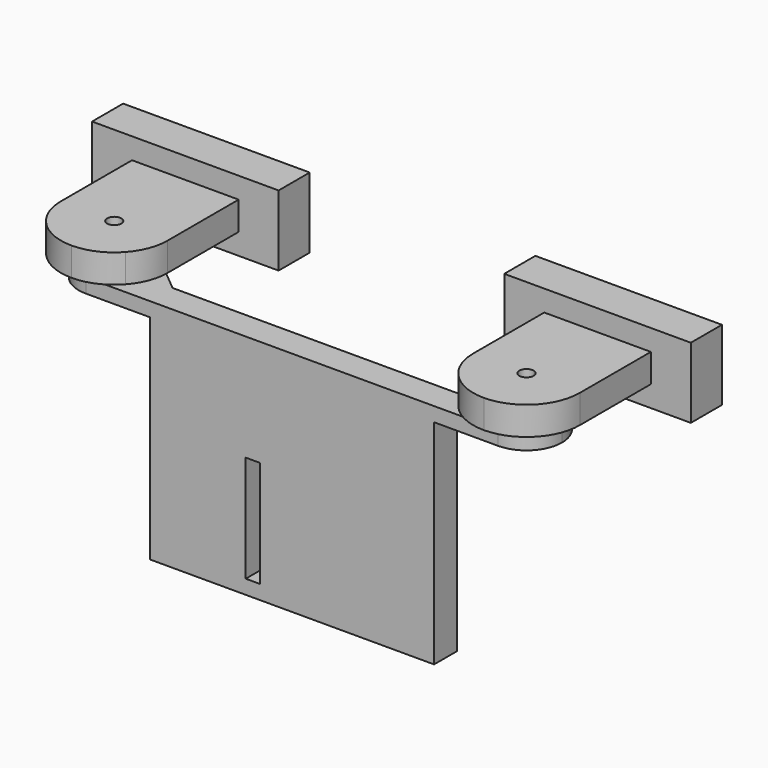
from build123d import *

# Parameters (mm, degrees)
F1_W          = 26.25
F1_H          = 9.93
F1_W_2        = 15
F1_H_2        = 4
F2_DEPTH      = 5.47
F3_DEPTH      = 25.47
F4_R          = 1
F5_DEPTH      = 25
F6_DEPTH      = 2
F4_W          = 13.5
F4_H          = 4
F7_DEPTH      = 30
F7_DEPTH_BACK = 2
F4_W_2        = 24.5
F4_W_3        = 2
F8_DEPTH      = 2
F8_DEPTH_BACK = 13
F9_START      = -28
F9_DEPTH      = 2


with BuildPart() as f2:
    # F1 (on Front) → F2 (new body)
    with BuildSketch(Plane.XZ):
        with Locations((-29, 4.965)):
            Rectangle(F1_W, F1_H)
        with Locations((-29, 4.965)):
            Rectangle(F1_W_2, F1_H_2, mode=Mode.SUBTRACT)
    extrude(amount=F2_DEPTH)

    # F1 (on Front) → F3 (join)
    with BuildSketch(Plane.XZ):
        with Locations((-29, 4.965)):
            Rectangle(F1_W_2, F1_H_2)
    extrude(amount=F3_DEPTH)


with BuildPart() as f2b:
    # F1 (on Front) → F2, piece 2 (new body)
    with BuildSketch(Plane.XZ):
        with Locations((29, 4.965)):
            Rectangle(F1_W, F1_H)
        with Locations((29, 4.965)):
            Rectangle(F1_W_2, F1_H_2, mode=Mode.SUBTRACT)
    extrude(amount=F2_DEPTH)

    # F1 (on Front) → F3, piece 2 (join)
    with BuildSketch(Plane.XZ):
        with Locations((29, 4.965)):
            Rectangle(F1_W_2, F1_H_2)
    extrude(amount=F3_DEPTH)


with BuildPart() as f5_tool:
    # F4 (on Top) → F5 (new body)
    with BuildSketch(Plane.XY):
        with BuildLine():
            Line((-36.5, -17.97), (-36.5, -25.47))
            Line((-36.5, -25.47), (-29, -25.47))
            ThreePointArc((-29, -25.47), (-34.3033008589, -23.2733008589), (-36.5, -17.97))
        make_face()
        with BuildLine():
            ThreePointArc((-23.4098300563, -22.97), (-25.9381378215, -24.8165319688), (-29, -25.47))
            Line((-29, -25.47), (-21.5, -25.47))
            Line((-21.5, -25.47), (-21.5, -22.97))
            Line((-21.5, -22.97), (-23.4098300563, -22.97))
        make_face()
        with BuildLine():
            Line((23.4098300563, -22.97), (21.5, -22.97))
            Line((21.5, -22.97), (21.5, -25.47))
            Line((21.5, -25.47), (29, -25.47))
            ThreePointArc((29, -25.47), (25.9381378215, -24.8165319688), (23.4098300563, -22.97))
        make_face()
        with BuildLine():
            ThreePointArc((36.5, -17.97), (34.3033008589, -23.2733008589), (29, -25.47))
            Line((29, -25.47), (36.5, -25.47))
            Line((36.5, -25.47), (36.5, -17.97))
        make_face()
        with BuildLine():
            ThreePointArc((-21.5, -17.97), (-21.9937073078, -20.6461656733), (-23.4098300563, -22.97))
            Line((-23.4098300563, -22.97), (-21.5, -22.97))
            Line((-21.5, -22.97), (-21.5, -17.97))
        make_face()
        with BuildLine():
            Line((21.5, -17.97), (21.5, -22.97))
            Line((21.5, -22.97), (23.4098300563, -22.97))
            ThreePointArc((23.4098300563, -22.97), (21.9937073078, -20.6461656733), (21.5, -17.97))
        make_face()
        with Locations((-29, -17.97)):
            Circle(F4_R)
        with Locations((29, -17.97)):
            Circle(F4_R)
    extrude(amount=F5_DEPTH)


with BuildPart() as f2_1:
    add(f2.part)

    # F5: cut by f5_tool
    add(f5_tool.part, mode=Mode.SUBTRACT)


with BuildPart() as f2b_1:
    add(f2b.part)

    # F5: cut by f5_tool
    add(f5_tool.part, mode=Mode.SUBTRACT)


with BuildPart() as f6:
    # F4 (on Top) → F6 (new body)
    with BuildSketch(Plane.XY):
        Polygon((-21.5, -17.97), (-21.5, -22.97), (-20, -22.97), (-20, -18.97), (-21.5, -17.717790031), align=None)
        with BuildLine():
            ThreePointArc((-25.7957418027, -14.1316762245), (-33.7006179848, -16.2658314164), (-29, -22.97))
            ThreePointArc((-29, -22.97), (-25.4644660941, -21.5055339059), (-24, -17.97))
            ThreePointArc((-24, -17.97), (-24.4711319855, -15.851190309), (-25.7957418027, -14.1316762245))
        make_face()
        with Locations((-29, -17.97)):
            Circle(F4_R, mode=Mode.SUBTRACT)
        with BuildLine():
            Line((-29, -22.97), (-23.4098300563, -22.97))
            ThreePointArc((-23.4098300563, -22.97), (-21.9937073078, -20.6461656733), (-21.5, -17.97))
            Line((-21.5, -17.97), (-21.5, -17.717790031))
            Line((-21.5, -17.717790031), (-25.7957418027, -14.1316762245))
            ThreePointArc((-25.7957418027, -14.1316762245), (-24.4711319855, -15.851190309), (-24, -17.97))
            ThreePointArc((-24, -17.97), (-25.4644660941, -21.5055339059), (-29, -22.97))
        make_face()
        with BuildLine():
            ThreePointArc((-21.5, -17.97), (-21.9937073078, -20.6461656733), (-23.4098300563, -22.97))
            Line((-23.4098300563, -22.97), (-21.5, -22.97))
            Line((-21.5, -22.97), (-21.5, -17.97))
        make_face()
    extrude(amount=F6_DEPTH)

    # F4 (on Top) → F7 (join, two sides)
    with BuildSketch(Plane.XY) as f7_sk:
        with Locations((-13.25, -20.97)):
            Rectangle(F4_W, F4_H)
    extrude(amount=-F7_DEPTH)
    extrude(f7_sk.sketch, amount=F7_DEPTH_BACK)



with BuildPart() as f6b:
    # F4 (on Top) → F6, piece 2 (new body)
    with BuildSketch(Plane.XY):
        with BuildLine():
            ThreePointArc((25.7957418027, -14.1316762245), (24.2993820152, -19.6741685836), (29, -22.97))
            ThreePointArc((29, -22.97), (32.5355339059, -21.5055339059), (34, -17.97))
            ThreePointArc((34, -17.97), (31.118809691, -13.4411319855), (25.7957418027, -14.1316762245))
        make_face()
        with Locations((29, -17.97)):
            Circle(F4_R, mode=Mode.SUBTRACT)
        with BuildLine():
            Line((21.5, -17.717790031), (21.5, -17.97))
            ThreePointArc((21.5, -17.97), (21.9937073078, -20.6461656733), (23.4098300563, -22.97))
            Line((23.4098300563, -22.97), (29, -22.97))
            ThreePointArc((29, -22.97), (24.2993820152, -19.6741685836), (25.7957418027, -14.1316762245))
            Line((25.7957418027, -14.1316762245), (21.5, -17.717790031))
        make_face()
        with BuildLine():
            Line((21.5, -17.97), (21.5, -22.97))
            Line((21.5, -22.97), (23.4098300563, -22.97))
            ThreePointArc((23.4098300563, -22.97), (21.9937073078, -20.6461656733), (21.5, -17.97))
        make_face()
        Polygon((20, -18.97), (20, -22.97), (21.5, -22.97), (21.5, -17.97), (21.5, -17.717790031), align=None)
    extrude(amount=F6_DEPTH)

    # F4 (on Top) → F7, piece 2 (join, two sides)
    with BuildSketch(Plane.XY) as f7_2_sk:
        with Locations((7.75, -20.97)):
            Rectangle(F4_W_2, F4_H)
    extrude(amount=-F7_DEPTH)
    extrude(f7_2_sk.sketch, amount=F7_DEPTH_BACK)


with BuildPart() as f6_1:
    add(f6.part)

    add(f6b.part)  # F8 merges F6b
    # F4 (on Top) → F8 (join, two sides)
    with BuildSketch(Plane.XY) as f8_sk:
        with Locations((-5.5, -20.97)):
            Rectangle(F4_W_3, F4_H)
    extrude(amount=F8_DEPTH)
    extrude(f8_sk.sketch, amount=-F8_DEPTH_BACK)

    # F4 (on Top) → F9 (join)
    with BuildSketch(Plane.XY.offset(F9_START)):
        with Locations((-5.5, -20.97)):
            Rectangle(F4_W_3, F4_H)
    extrude(amount=-F9_DEPTH)


solid = Compound([f2_1.part, f2b_1.part, f6_1.part])
